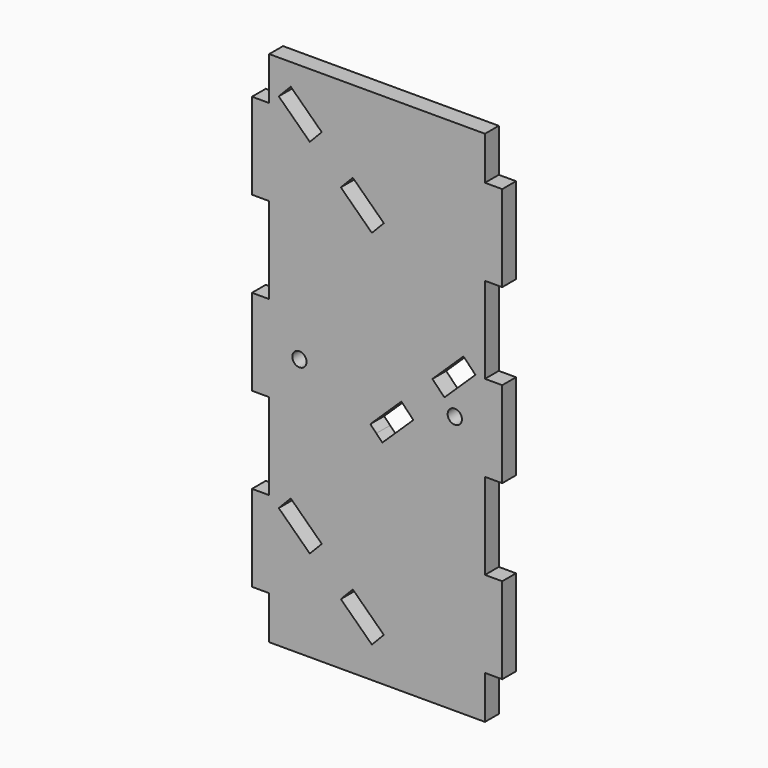
from build123d import *

# Parameters (mm, degrees)
F0_W     = 50
F0_H     = 120
F1_DEPTH = 4
F2_W     = 4
F2_H     = 20
F2_H_2   = 10
F3_DEPTH = 4
F5_D     = 3.3


with BuildPart() as f1:
    # F0 (on Front) → F1 (new body)
    with BuildSketch(Plane.XZ):
        Rectangle(F0_W, F0_H)
        Polygon((-21.4033009983, -30.4732918523), (-20.0139842574, -29.0346122516), (-12.820586254, -35.9811959562), (-14.2099029949, -37.4198755569), (-15.5992197358, -38.8585551576), (-22.7926177392, -31.911971453), align=None, mode=Mode.SUBTRACT)
        Polygon((-1.2124237291, -52.7517225667), (-8.4058217325, -45.8051388622), (-7.0165049915, -44.3664592615), (-5.6271882506, -42.9277796608), (1.5662097528, -49.8743633654), (0.1768930119, -51.3130429661), align=None, mode=Mode.SUBTRACT)
        Polygon((5.6271882506, -0.9277796608), (7.0165049915, -2.3664592615), (8.4058217325, -3.8051388622), (1.2124237291, -10.7517225667), (-0.1768930119, -9.3130429661), (-1.5662097528, -7.8743633654), align=None, mode=Mode.SUBTRACT)
        Polygon((-22.7926177392, 52.088028547), (-21.4033009983, 53.5267081477), (-20.0139842574, 54.9653877484), (-12.820586254, 48.0188040438), (-14.2099029949, 46.5801244431), (-15.5992197358, 45.1414448424), align=None, mode=Mode.SUBTRACT)
        Polygon((-8.4058217325, 38.1948611378), (-7.0165049915, 39.6335407385), (-5.6271882506, 41.0722203392), (1.5662097528, 34.1256366346), (0.1768930119, 32.6869570339), (-1.2124237291, 31.2482774333), align=None, mode=Mode.SUBTRACT)
        Polygon((20.0139842574, 12.9653877484), (21.4033009983, 11.5267081477), (22.7926177392, 10.088028547), (15.5992197358, 3.1414448424), (14.2099029949, 4.5801244431), (12.820586254, 6.0188040438), align=None, mode=Mode.SUBTRACT)
    extrude(amount=F1_DEPTH)

    # F2 (on face) → F3 (join)
    with BuildSketch(Plane.XZ.offset(4)):
        with Locations((-27, 40)):
            Rectangle(F2_W, F2_H)
        with Locations((-27, -5)):
            Rectangle(F2_W, F2_H_2)
        with Locations((-27, 5)):
            Rectangle(F2_W, F2_H_2)
        with Locations((-27, -40)):
            Rectangle(F2_W, F2_H)
        with Locations((27, 5)):
            Rectangle(F2_W, F2_H_2)
        with Locations((27, -5)):
            Rectangle(F2_W, F2_H_2)
        with Locations((27, 40)):
            Rectangle(F2_W, F2_H)
        with Locations((27, -40)):
            Rectangle(F2_W, F2_H)
    extrude(amount=-F3_DEPTH)

    # F5 (through all)
    with Locations(Plane.XZ.offset(4)):
        with Locations((-18, 0), (18, 0)):
            Hole(F5_D / 2)


solid = f1.part
